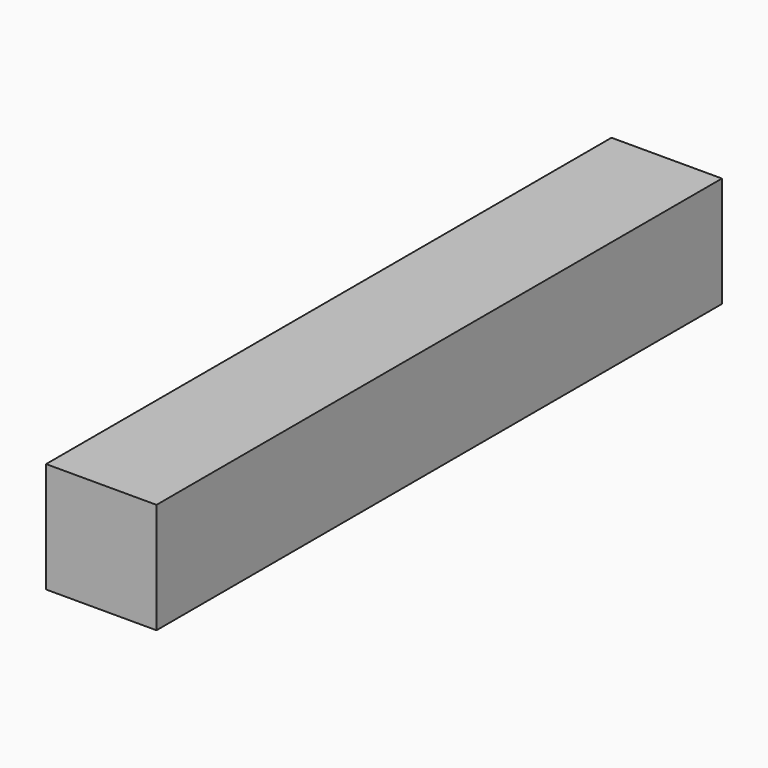
from build123d import *

# Parameters (mm, degrees)
F0_W      = 63.5
F0_H      = 63.5
F1_DEPTH  = 1498.6
F1_FACE_W = 63.5
F1_FACE_H = 63.5
F2_DEPTH  = 1092.2


with BuildPart() as f1:
    # F0 (on Front) → F1 (new body)
    with BuildSketch(Plane.XZ):
        with Locations((-132.818661, 36.373457)):
            Rectangle(F0_W, F0_H)
    extrude(amount=F1_DEPTH)

    # F1_face (on face) → F2 (cut)
    with BuildSketch(Plane(origin=(-132.818661, 0, 36.373457), x_dir=(1, 0, 0), z_dir=(0, 1, 0))):
        Rectangle(F1_FACE_W, F1_FACE_H)
    extrude(amount=-F2_DEPTH, mode=Mode.SUBTRACT)


solid = f1.part
